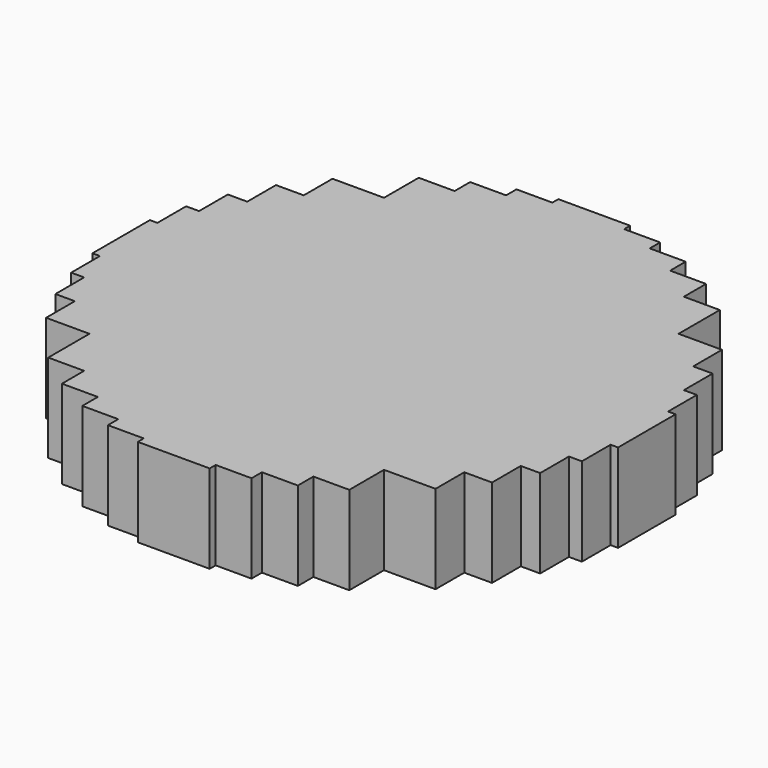
from build123d import *

# Parameters (mm, degrees)
F0_W     = 20.6375
F0_H     = 29.602128
F0_W_2   = 29.602128
F0_H_2   = 20.6375
F1_DEPTH = 50.8


with BuildPart() as f1:
    # F0 (on Top) → F1 (new body)
    with BuildSketch(Plane.XY):
        Polygon((0, -20.6375), (0, 0), (-20.6375, 0), (-20.6375, -20.6375), (-20.6375, -146.704241), (-20.6375, -150.996204), (0, -150.996204), align=None)
        Polygon((20.6375, 0), (0, 0), (0, -20.6375), (20.6375, -20.6375), (146.704241, -20.6375), (150.996204, -20.6375), (150.996204, 0), align=None)
        Polygon((0, 20.6375), (0, 0), (20.6375, 0), (20.6375, 20.6375), (20.6375, 146.704241), (20.6375, 150.996204), (0, 150.996204), align=None)
        Polygon((-20.6375, 0), (0, 0), (0, 20.6375), (-20.6375, 20.6375), (-146.704241, 20.6375), (-150.996204, 20.6375), (-150.996204, 0), align=None)
        Polygon((-20.6375, -20.6375), (-20.6375, 0), (-150.996204, 0), (-150.996204, -20.6375), (-146.704241, -20.6375), (-41.275, -20.6375), align=None)
        Polygon((20.6375, -20.6375), (0, -20.6375), (0, -150.996204), (20.6375, -150.996204), (20.6375, -146.704241), (20.6375, -41.275), align=None)
        Polygon((20.6375, 20.6375), (20.6375, 0), (150.996204, 0), (150.996204, 20.6375), (146.704241, 20.6375), (41.275, 20.6375), align=None)
        Polygon((-20.6375, 20.6375), (0, 20.6375), (0, 150.996204), (-20.6375, 150.996204), (-20.6375, 146.704241), (-20.6375, 41.275), align=None)
        Polygon((-20.6375, -146.704241), (-20.6375, -20.6375), (-41.275, -20.6375), (-41.275, -41.275), (-41.275, -139.257324), (-41.275, -146.704241), align=None)
        Polygon((146.704241, -20.6375), (20.6375, -20.6375), (20.6375, -41.275), (41.275, -41.275), (139.257324, -41.275), (146.704241, -41.275), align=None)
        Polygon((20.6375, 146.704241), (20.6375, 20.6375), (41.275, 20.6375), (41.275, 41.275), (41.275, 139.257324), (41.275, 146.704241), align=None)
        Polygon((-146.704241, 20.6375), (-20.6375, 20.6375), (-20.6375, 41.275), (-41.275, 41.275), (-139.257324, 41.275), (-146.704241, 41.275), align=None)
        Polygon((-41.275, -41.275), (-41.275, -20.6375), (-146.704241, -20.6375), (-146.704241, -41.275), (-139.257324, -41.275), (-61.9125, -41.275), align=None)
        Polygon((41.275, -41.275), (20.6375, -41.275), (20.6375, -146.704241), (41.275, -146.704241), (41.275, -139.257324), (41.275, -61.9125), align=None)
        Polygon((41.275, 41.275), (41.275, 20.6375), (146.704241, 20.6375), (146.704241, 41.275), (139.257324, 41.275), (61.9125, 41.275), align=None)
        Polygon((-41.275, 41.275), (-20.6375, 41.275), (-20.6375, 146.704241), (-41.275, 146.704241), (-41.275, 139.257324), (-41.275, 61.9125), align=None)
        Polygon((-41.275, -139.257324), (-41.275, -41.275), (-61.9125, -41.275), (-61.9125, -61.9125), (-61.9125, -128.10643), (-61.9125, -139.257324), align=None)
        Polygon((139.257324, -41.275), (41.275, -41.275), (41.275, -61.9125), (61.9125, -61.9125), (128.10643, -61.9125), (139.257324, -61.9125), align=None)
        Polygon((41.275, 139.257324), (41.275, 41.275), (61.9125, 41.275), (61.9125, 61.9125), (61.9125, 128.10643), (61.9125, 139.257324), align=None)
        Polygon((-139.257324, 41.275), (-41.275, 41.275), (-41.275, 61.9125), (-61.9125, 61.9125), (-128.10643, 61.9125), (-139.257324, 61.9125), align=None)
        Polygon((-61.9125, -61.9125), (-61.9125, -41.275), (-139.257324, -41.275), (-139.257324, -61.9125), (-128.10643, -61.9125), (-82.55, -61.9125), align=None)
        Polygon((61.9125, -61.9125), (41.275, -61.9125), (41.275, -139.257324), (61.9125, -139.257324), (61.9125, -128.10643), (61.9125, -82.55), align=None)
        Polygon((61.9125, 61.9125), (61.9125, 41.275), (139.257324, 41.275), (139.257324, 61.9125), (128.10643, 61.9125), (82.55, 61.9125), align=None)
        Polygon((-61.9125, 61.9125), (-41.275, 61.9125), (-41.275, 139.257324), (-61.9125, 139.257324), (-61.9125, 128.10643), (-61.9125, 82.55), align=None)
        Polygon((-61.9125, -128.10643), (-61.9125, -61.9125), (-82.55, -61.9125), (-82.55, -82.55), (-82.55, -112.152128), (-82.55, -128.10643), align=None)
        Polygon((128.10643, -61.9125), (61.9125, -61.9125), (61.9125, -82.55), (82.55, -82.55), (112.152128, -82.55), (128.10643, -82.55), align=None)
        Polygon((61.9125, 128.10643), (61.9125, 61.9125), (82.55, 61.9125), (82.55, 82.55), (82.55, 112.152128), (82.55, 128.10643), align=None)
        Polygon((-128.10643, 61.9125), (-61.9125, 61.9125), (-61.9125, 82.55), (-82.55, 82.55), (-112.152128, 82.55), (-128.10643, 82.55), align=None)
        Polygon((-82.55, -82.55), (-82.55, -61.9125), (-128.10643, -61.9125), (-128.10643, -82.55), (-103.1875, -82.55), align=None)
        Polygon((82.55, -82.55), (61.9125, -82.55), (61.9125, -128.10643), (82.55, -128.10643), (82.55, -103.1875), align=None)
        Polygon((82.55, 82.55), (82.55, 61.9125), (128.10643, 61.9125), (128.10643, 82.55), (103.1875, 82.55), align=None)
        Polygon((-82.55, 82.55), (-61.9125, 82.55), (-61.9125, 128.10643), (-82.55, 128.10643), (-82.55, 103.1875), align=None)
        with Locations((-92.86875, -97.351064)):
            Rectangle(F0_W, F0_H)
        with Locations((97.351064, -92.86875)):
            Rectangle(F0_W_2, F0_H_2)
        with Locations((92.86875, 97.351064)):
            Rectangle(F0_W, F0_H)
        with Locations((-97.351064, 92.86875)):
            Rectangle(F0_W_2, F0_H_2)
    extrude(amount=F1_DEPTH)


solid = f1.part
